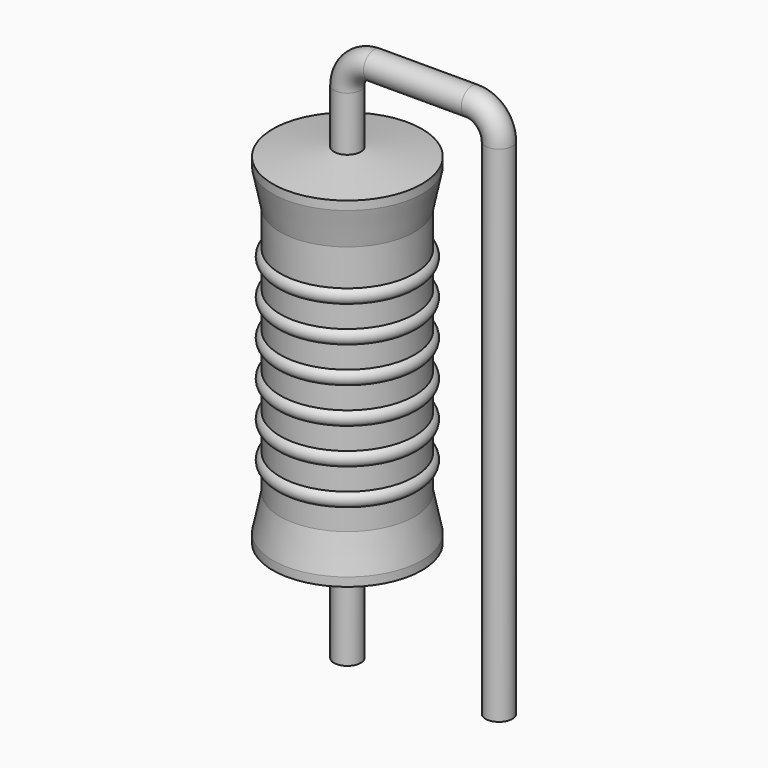
from build123d import *

# Parameters (mm, degrees)
SKETCH_R = 0.45


with BuildPart() as revolution:
    # Sketch002 → Revolution (revolve)
    with BuildSketch(Plane.XZ):
        Polygon((0, 0.1), (0, 12.1), (0.3375, 12.1), (2.5, 11.8), (2.5, 11.5075), (2.25, 10.3), (2.25, 1.9), (2.5, 0.6925), (2.5, 0.4), (0.3375, 0.1), align=None)
    revolve(axis=Axis((0, 0, 0), (0, 0, 1)))


with BuildPart() as sweep_body:
    # Sweep: sweep along a path in Sketch001
    with BuildLine(Plane.XZ) as sweep_path:
        Line((0, -3), (0, 13.9))
        ThreePointArc((0, 13.9), (0.263601, 14.536393), (0.899991, 14.8))
        Line((0.899991, 14.8), (4.18, 14.8))
        ThreePointArc((4.18, 14.8), (4.816396, 14.536396), (5.08, 13.9))
        Line((5.08, 13.9), (5.08, -3))
    # Sketch → Sweep (sweep)
    with BuildSketch(Plane.XY.offset(-2)):
        Circle(SKETCH_R)
    sweep(path=sweep_path.line)


with BuildPart() as obj1:
    # Sketch003 → Revolution001 (revolve)
    with BuildSketch(Plane.XZ):
        with BuildLine():
            Line((2, 9.8), (2, 1.9))
            Line((2, 1.9), (2.15, 1.9))
            Line((2.15, 1.9), (2.15, 2.6))
            ThreePointArc((2.15, 2.6), (2.4, 2.85), (2.15, 3.1))
            Line((2.15, 3.1), (2.15, 3.8))
            ThreePointArc((2.15, 3.8), (2.4, 4.05), (2.15, 4.3))
            Line((2.15, 4.3), (2.15, 5))
            ThreePointArc((2.15, 5), (2.4, 5.25), (2.15, 5.5))
            Line((2.15, 5.5), (2.15, 6.2))
            ThreePointArc((2.15, 6.2), (2.4, 6.45), (2.15, 6.7))
            Line((2.15, 6.7), (2.15, 7.4))
            ThreePointArc((2.15, 7.4), (2.4, 7.65), (2.15, 7.9))
            Line((2.15, 7.9), (2.15, 8.6))
            ThreePointArc((2.15, 8.6), (2.4, 8.85), (2.15, 9.1))
            Line((2.15, 9.8), (2.15, 9.1))
            Line((2, 9.8), (2.15, 9.8))
        make_face()
    revolve(axis=Axis((0, 0, 0), (0, 0, 1)))

    # obj1: union Revolution, Sweep body
    add(revolution.part)
    add(sweep_body.part)


solid = obj1.part
